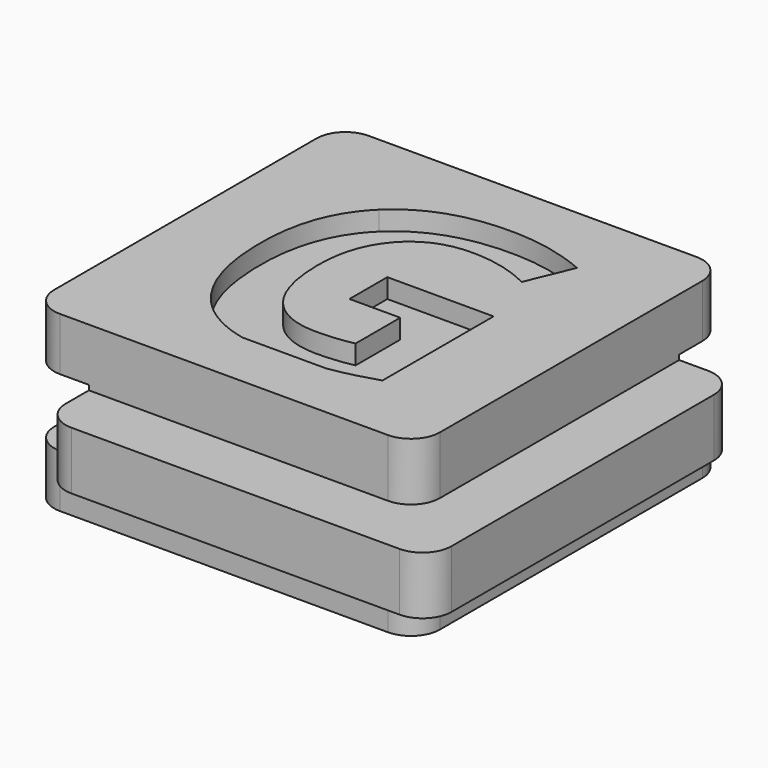
from build123d import *

# Parameters (mm, degrees)
F0_W     = 14
F0_H     = 3
F0_W_2   = 3
F1_DEPTH = 20
F2_DEPTH = 3
F3_W     = 3
F3_H     = 3
F4_DEPTH = 100
F5_W     = 3
F5_H     = 3.5
F6_DEPTH = 100
F7_R     = 1.5
F9_DEPTH = 1


with BuildPart() as f1:
    # F0 (on Front) → F1 (new body)
    with BuildSketch(Plane.XZ):
        Polygon((10, 1.5), (10, 4.5), (-10, 4.5), (-10, 1.5), (-7, 1.5), (7, 1.5), align=None)
        Rectangle(F0_W, F0_H)
        with Locations((11.5, 0)):
            Rectangle(F0_W_2, F0_H)
        with Locations((8.5, 0)):
            Rectangle(F0_W_2, F0_H)
        with Locations((-8.5, 0)):
            Rectangle(F0_W_2, F0_H)
        Polygon((10, -4.5), (10, -1.5), (7, -1.5), (-7, -1.5), (-10, -1.5), (-10, -4.5), align=None)
    extrude(amount=-F1_DEPTH)

    # F0 (on Front) → F2 (join)
    with BuildSketch(Plane.XZ):
        with Locations((-8.5, 0)):
            Rectangle(F0_W_2, F0_H)
        Rectangle(F0_W, F0_H)
        with Locations((8.5, 0)):
            Rectangle(F0_W_2, F0_H)
        with Locations((11.5, 0)):
            Rectangle(F0_W_2, F0_H)
    extrude(amount=F2_DEPTH)

    # F3 (on face) → F4 (cut)
    with BuildSketch(Plane.YZ.offset(13)):
        Polygon((23, -1.75), (23, 1.75), (17, 1.75), (17, 1.5), (20, 1.5), (20, -1.5), (17, -1.5), (17, -1.75), align=None)
        with Locations((18.5, 0)):
            Rectangle(F3_W, F3_H)
    extrude(amount=-F4_DEPTH, mode=Mode.SUBTRACT)

    # F5 (on face) → F6 (cut)
    with BuildSketch(Plane(origin=(0, 17, 0), x_dir=(-1, 0, 0), z_dir=(0, 1, 0))):
        with Locations((11.5, 0)):
            Rectangle(F5_W, F5_H)
        with Locations((8.5, 0)):
            Rectangle(F5_W, F5_H)
    extrude(amount=-F6_DEPTH, mode=Mode.SUBTRACT)

    # F7
    f7_edges = [f1.edges().sort_by_distance(p)[0] for p in [
        (-7, -3, 0),
        (13, -3, 0),
        (10, 0, 3),
        (10, 0, -3),
        (-10, 0, -3.125),
        (-10, 0, 3.125),
        (-7, 17, 0),
        (-10, 20, 3.125),
        (-10, 20, -3.125),
        (13, 17, 0),
        (10, 20, 3.125),
        (10, 20, -3.125),
    ]]
    fillet(f7_edges, radius=F7_R)

    # F8 (on face) → F9 (cut)
    with BuildSketch(Plane.XY.offset(4.5)):
        with BuildLine():
            Line((-1.4625191229, 3), (2.9206384037, 3))
            add(Edge.make_bspline(
                [(5.3432423682, 3.5985243056), (4.0594142819, 3.1793151345), (2.9206384037, 3)],
                knots=[0, 0, 0, 0.958192391, 0.958192391, 0.958192391], degree=2))
            Line((5.3432423682, 3.5985243056), (5.3432423682, 10.7960069444))
            Line((5.3432423682, 10.7960069444), (-0.1650041596, 10.7960069444))
            Line((-0.1650041596, 10.7960069444), (-0.1650041596, 8.3441840278))
            Line((-0.1650041596, 8.3441840278), (2.4660722293, 8.3441840278))
            Line((2.4660722293, 8.3441840278), (2.4660722293, 5.4487847222))
            add(Edge.make_bspline(
                [(0.5945444515, 5.2604166667), (1.5181555626, 5.2604166667), (2.4660722293, 5.4487847222)],
                knots=[0, 0, 0, 1, 1, 1], degree=2))
            add(Edge.make_bspline(
                [(-2.095776729, 6.4513888889), (-1.1706465207, 5.2604166667), (0.5945444515, 5.2604166667)],
                knots=[0, 0, 0, 1, 1, 1], degree=2))
            add(Edge.make_bspline(
                [(-3.0209069374, 9.9027777778), (-3.0209069374, 7.6423611111), (-2.095776729, 6.4513888889)],
                knots=[0, 0, 0, 1, 1, 1], degree=2))
            add(Edge.make_bspline(
                [(-1.8724694374, 13.3480902778), (-3.0209069374, 12.0659722222), (-3.0209069374, 9.9027777778)],
                knots=[0, 0, 0, 1, 1, 1], degree=2))
            add(Edge.make_bspline(
                [(1.1839541737, 14.6302083333), (-0.7240319374, 14.6302083333), (-1.8724694374, 13.3480902778)],
                knots=[0, 0, 0, 1, 1, 1], degree=2))
            add(Edge.make_bspline(
                [(4.3467145904, 13.8706597222), (2.8276173682, 14.6302083333), (1.1839541737, 14.6302083333)],
                knots=[0, 0, 0, 1, 1, 1], degree=2))
            Line((4.3467145904, 13.8706597222), (5.3250132015, 16.2252604167))
            add(Edge.make_bspline(
                [(1.2021833404, 17.0789930556), (3.3410722293, 17.0789930556), (5.3250132015, 16.2252604167)],
                knots=[0, 0, 0, 1, 1, 1], degree=2))
            add(Edge.make_bspline(
                [(-4.1268097151, 15.1998697917), (-2.2036326318, 17.0789930556), (1.2021833404, 17.0789930556)],
                knots=[0, 0, 0, 1, 1, 1], degree=2))
            add(Edge.make_bspline(
                [(-6.0499867985, 9.9605034722), (-6.0499867985, 13.3207465278), (-4.1268097151, 15.1998697917)],
                knots=[0, 0, 0, 1, 1, 1], degree=2))
            add(Edge.make_bspline(
                [(-4.392651729, 4.6558159722), (-6.0499867985, 6.5030381944), (-6.0499867985, 9.9605034722)],
                knots=[0, 0, 0, 1, 1, 1], degree=2))
            add(Edge.make_bspline(
                [(-1.4625191229, 3), (-3.2688097577, 3.4032111719), (-4.392651729, 4.6558159722)],
                knots=[0.3218981532, 0.3218981532, 0.3218981532, 1, 1, 1], degree=2))
        make_face()
    extrude(amount=-F9_DEPTH, mode=Mode.SUBTRACT)


solid = f1.part
